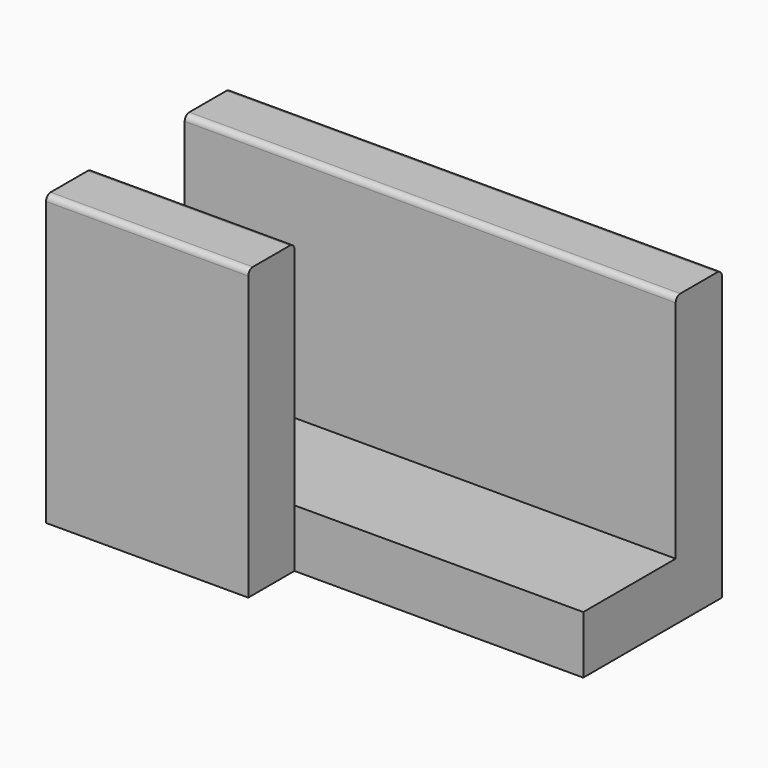
from build123d import *

# Parameters (mm, degrees)
F0_W     = 17
F0_H     = 4
F1_DEPTH = 2
F2_W     = 17
F2_H     = 2
F2_W_2   = 7
F3_DEPTH = 10
F4_R     = 0.2


with BuildPart() as f1:
    # F0 (on Top) → F1 (new body)
    with BuildSketch(Plane.XY):
        with Locations((-8.5, 2)):
            Rectangle(F0_W, F0_H)
    extrude(amount=F1_DEPTH)

    # F2 (on face) → F3 (join)
    with BuildSketch(Plane(origin=(0, 0, 0), x_dir=(1, 0, 0), z_dir=(0, 0, -1))):
        with Locations((-8.5, -5)):
            Rectangle(F2_W, F2_H)
        with Locations((-13.5, 1)):
            Rectangle(F2_W_2, F2_H)
    extrude(amount=-F3_DEPTH)

    # F4
    f4_edges = [f1.edges().sort_by_distance(p)[0] for p in [
        (-13.5, -2, 10),
        (-13.5, 0, 10),
        (-8.5, 4, 10),
        (-8.5, 6, 10),
    ]]
    fillet(f4_edges, radius=F4_R)


solid = f1.part
